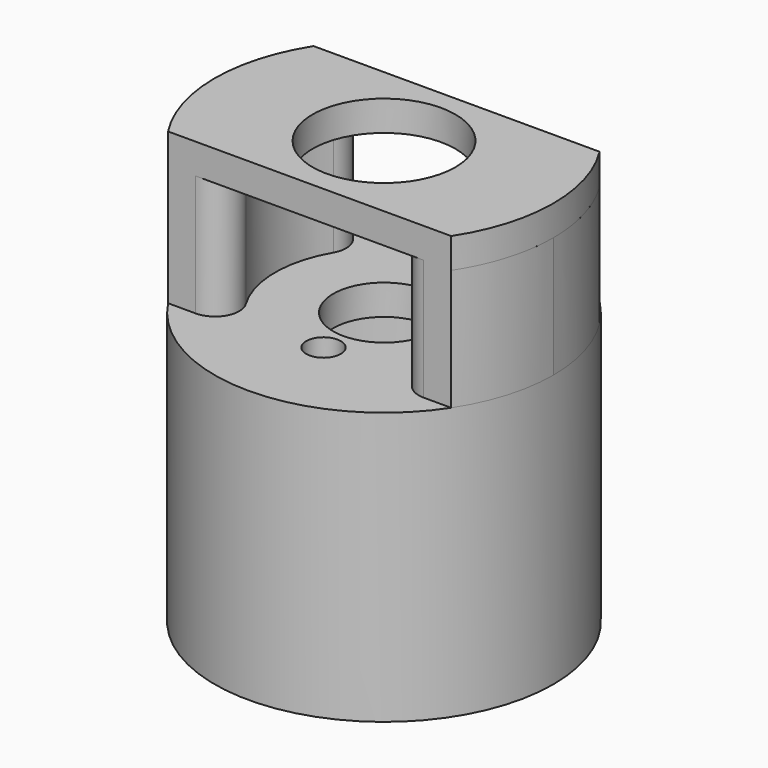
from build123d import *

# Parameters (mm, degrees)
F0_R     = 17.78
F0_R_2   = 14.605
F1_DEPTH = 25.4
F2_R     = 17.78
F2_R_2   = 1.822559
F2_R_3   = 5.334
F2_R_4   = 1.5875
F3_DEPTH = 3.175
F5_DEPTH = 12.7
F6_R     = 7.5
F7_DEPTH = 3.175
F8_R     = 2.54


with BuildPart() as f1:
    # F0 (on Top) → F1 (new body)
    with BuildSketch(Plane.XY):
        Circle(F0_R)
        Circle(F0_R_2, mode=Mode.SUBTRACT)
    extrude(amount=F1_DEPTH)

    # F2 (on face) → F3 (join)
    with BuildSketch(Plane.XY.offset(25.4)):
        Circle(F2_R)
        with Locations((0, -7.9375)):
            Circle(F2_R_2, mode=Mode.SUBTRACT)
        Circle(F2_R_3, mode=Mode.SUBTRACT)
        with Locations((0, 7.9375)):
            Circle(F2_R_4, mode=Mode.SUBTRACT)
    extrude(amount=F3_DEPTH)

    # F4 (on face) → F5 (join)
    with BuildSketch(Plane.XY.offset(28.575)):
        with BuildLine():
            Line((-6.31817, 9.525), (-15.01342, 9.525))
            ThreePointArc((-15.01342, 9.525), (-17.77945, -0.13989), (-14.861684, -9.760059))
            Line((-14.861684, -9.760059), (-5.948626, -9.760059))
            ThreePointArc((-5.948626, -9.760059), (-11.427902, -0.218984), (-6.31817, 9.525))
        make_face()
        with BuildLine():
            ThreePointArc((17.78, 0), (17.074352, 4.959324), (15.01342, 9.525))
            Line((15.01342, 9.525), (6.31817, 9.525))
            ThreePointArc((6.31817, 9.525), (11.427902, -0.218984), (5.948626, -9.760059))
            Line((5.948626, -9.760059), (14.861684, -9.760059))
            ThreePointArc((14.861684, -9.760059), (17.034805, -5.093508), (17.78, 0))
        make_face()
    extrude(amount=F5_DEPTH)

    # F6 (on face) → F7 (join)
    with BuildSketch(Plane.XY.offset(41.275)):
        with BuildLine():
            Line((15.01342, 9.525), (-15.01342, 9.525))
            ThreePointArc((-15.01342, 9.525), (-17.77945, -0.13989), (-14.861684, -9.760059))
            Line((-14.861684, -9.760059), (14.861684, -9.760059))
            ThreePointArc((14.861684, -9.760059), (17.77945, -0.13989), (15.01342, 9.525))
        make_face()
        Circle(F6_R, mode=Mode.SUBTRACT)
        with BuildLine():
            Line((15.01342, 9.525), (-15.01342, 9.525))
            ThreePointArc((-15.01342, 9.525), (-17.77945, -0.13989), (-14.861684, -9.760059))
            Line((-14.861684, -9.760059), (14.861684, -9.760059))
            ThreePointArc((14.861684, -9.760059), (17.77945, -0.13989), (15.01342, 9.525))
        make_face()
        Circle(F6_R, mode=Mode.SUBTRACT)
    extrude(amount=F7_DEPTH)

    # F8
    f8_edges = [f1.edges().sort_by_distance(p)[0] for p in [
        (-5.948626, -9.760059, 34.925),
        (5.948626, -9.760059, 34.925),
        (-6.31817, 9.525, 34.925),
        (6.31817, 9.525, 34.925),
    ]]
    fillet(f8_edges, radius=F8_R)


solid = f1.part
